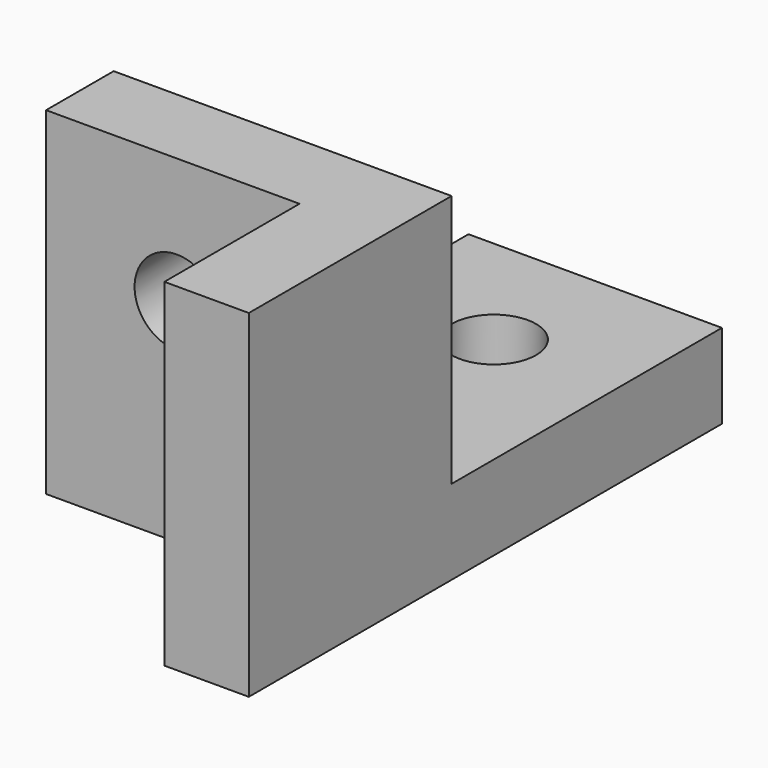
from build123d import *

# Parameters (mm, degrees)
F0_R     = 12.7
F1_DEPTH = 25.4
F3_DEPTH = 76.2
F4_R     = 12.7
F5_DEPTH = 25.4


with BuildPart() as f1:
    # F0 (on Top) → F1 (new body)
    with BuildSketch(Plane.XY):
        Polygon((2.805811, 78.11977), (-73.394189, 78.11977), (-73.394189, 27.31977), (-98.794189, 27.31977), (-98.794189, -48.88023), (-73.394189, -48.88023), (-22.594189, -48.88023), (-22.594189, -99.68023), (2.805811, -99.68023), (2.805811, -48.88023), align=None)
        with Locations((-35.294189, 40.01977)):
            Circle(F0_R, mode=Mode.SUBTRACT)
    extrude(amount=F1_DEPTH)

    # F2 (on face) → F3 (join)
    with BuildSketch(Plane.XY.offset(25.4)):
        Polygon((2.805811, -23.48023), (-98.794189, -23.48023), (-98.794189, -48.88023), (-22.594189, -48.88023), (-22.594189, -99.68023), (2.805811, -99.68023), align=None)
    extrude(amount=F3_DEPTH)

    # F4 (on face) → F5 (cut)
    with BuildSketch(Plane.XZ.offset(48.88023)):
        with Locations((-59.483197, 63.5)):
            Circle(F4_R)
    extrude(amount=-F5_DEPTH, mode=Mode.SUBTRACT)


solid = f1.part
